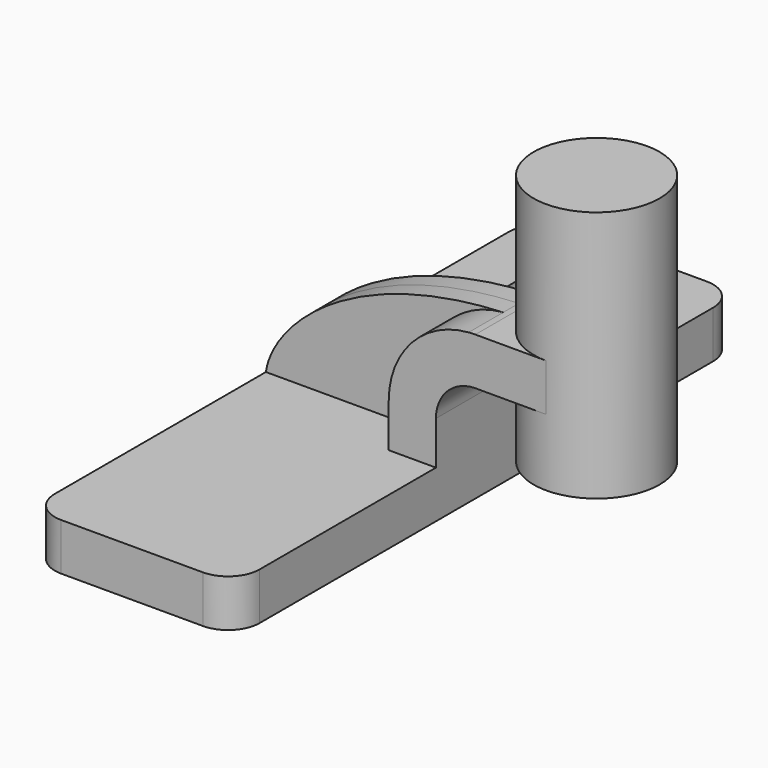
from build123d import *

# Parameters (mm, degrees)
F1_DEPTH = 127
F0_W     = 25.4
F0_H     = 19.05
F2_DEPTH = 25.4
F3_DEPTH = 7.9375
F5_R     = 12.7


with BuildPart() as f1:
    # F0 (on Front) → F1 (new body, symmetric)
    with BuildSketch(Plane.XZ):
        Polygon((23.7298189036, 9.525), (-39.7701810964, 9.525), (-39.7701810964, -9.525), (42.7798189036, -9.525), (42.7798189036, 9.525), align=None)
    extrude(amount=F1_DEPTH, both=True)

    # F0 (on Front) → F2 (join, symmetric)
    with BuildSketch(Plane.XZ):
        with Locations((74.5298189036, 52.4002)):
            Rectangle(F0_W, F0_H)
        with BuildLine():
            Line((23.7298189036, 27.0002), (23.7298189036, 9.525))
            Line((23.7298189036, 9.525), (42.7798189036, 9.525))
            Line((42.7798189036, 9.525), (42.7798189036, 27.0002))
            ThreePointArc((42.7798189036, 27.0002), (47.4294987522, 38.2255201513), (58.6548189036, 42.8752))
            Line((58.6548189036, 42.8752), (61.8298189036, 42.8752))
            Line((61.8298189036, 42.8752), (61.8298189036, 61.9252))
            Line((61.8298189036, 61.9252), (58.6548189036, 61.9252))
            add(Edge.make_bspline(
                [(55.9463563883, 61.8200198703), (56.8425826502, 61.8608849379), (57.7453992228, 61.8959848389), (58.6548189036, 61.9252)],
                knots=[109.933459913, 109.933459913, 109.933459913, 109.933459913, 111.5045361635, 111.5045361635, 111.5045361635, 111.5045361635], degree=3))
            ThreePointArc((55.9463563883, 61.8200198703), (33.0194070837, 50.7189960451), (23.7298189036, 27.0002))
        make_face()
    extrude(amount=F2_DEPTH, both=True)

    # F0 (on Front) → F3 (join, symmetric)
    with BuildSketch(Plane.XZ):
        with BuildLine():
            add(Edge.make_bspline(
                [(-39.7701810964, 9.525), (-37.2096076888, 27.8732826741), (-6.7655926965, 58.9605544136), (55.9463563883, 61.8200198703)],
                knots=[0, 0, 0, 0, 109.933459913, 109.933459913, 109.933459913, 109.933459913], degree=3))
            Line((-39.7701810964, 9.525), (23.7298189036, 9.525))
            Line((23.7298189036, 9.525), (23.7298189036, 27.0002))
            ThreePointArc((23.7298189036, 27.0002), (33.0194070837, 50.7189960451), (55.9463563883, 61.8200198703))
        make_face()
    extrude(amount=F3_DEPTH, both=True)

    # F0 (on Front) → F4 (revolve)
    with BuildSketch(Plane.XZ):
        Polygon((87.2298189036, 117.475), (87.2298189036, 61.9252), (87.2298189036, 42.8752), (87.2298189036, 15.875), (112.6298189036, 15.875), (112.6298189036, 117.475), align=None)
    revolve(axis=Axis((87.2298189036, 0, 66.675), (0, 0, 1)))

    # F5
    f5_edges = [f1.edges().sort_by_distance(p)[0] for p in [
        (-39.770181, -127, 0),
        (42.779819, -127, 0),
        (42.779819, 127, 0),
        (-39.770181, 127, 0),
    ]]
    fillet(f5_edges, radius=F5_R)


solid = f1.part
